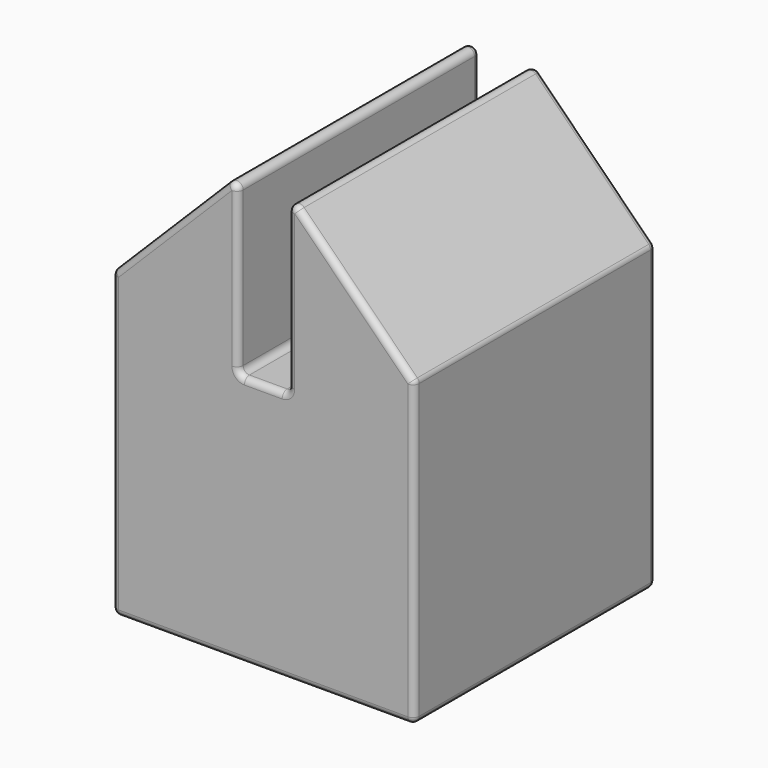
from build123d import *

# Parameters (mm, degrees)
F1_DEPTH = 38.1
F2_R     = 0.79375


with BuildPart() as f1:
    # F0 (on Front) → F1 (new body)
    with BuildSketch(Plane.XZ):
        Polygon((0, 38.1), (0, 0), (38.1, 0), (38.1, 38.1), (22.225, 53.975), (22.225, 31.75), (19.05, 31.75), (15.875, 31.75), (15.875, 53.975), align=None)
    extrude(amount=F1_DEPTH)

    # F2
    f2_edges = [f1.edges().sort_by_distance(p)[0] for p in [
        (30.1625, -38.1, 46.0375),
        (30.1625, 0, 46.0375),
        (22.225, -19.05, 53.975),
        (15.875, -19.05, 53.975),
        (15.875, -19.05, 31.75),
        (38.1, -19.05, 0),
        (38.1, -19.05, 38.1),
        (0, -19.05, 38.1),
        (7.9375, -38.1, 46.0375),
        (7.9375, 0, 46.0375),
        (19.05, -38.1, 0),
        (38.1, -38.1, 19.05),
        (19.05, 0, 0),
        (19.05, -38.1, 31.75),
        (15.875, 0, 42.8625),
        (15.875, -38.1, 42.8625),
        (19.05, 0, 31.75),
        (22.225, -38.1, 42.8625),
        (22.225, 0, 42.8625),
        (38.1, 0, 19.05),
        (0, -38.1, 19.05),
        (0, 0, 19.05),
        (22.225, -19.05, 31.75),
        (0, -19.05, 0),
    ]]
    fillet(f2_edges, radius=F2_R)


solid = f1.part
